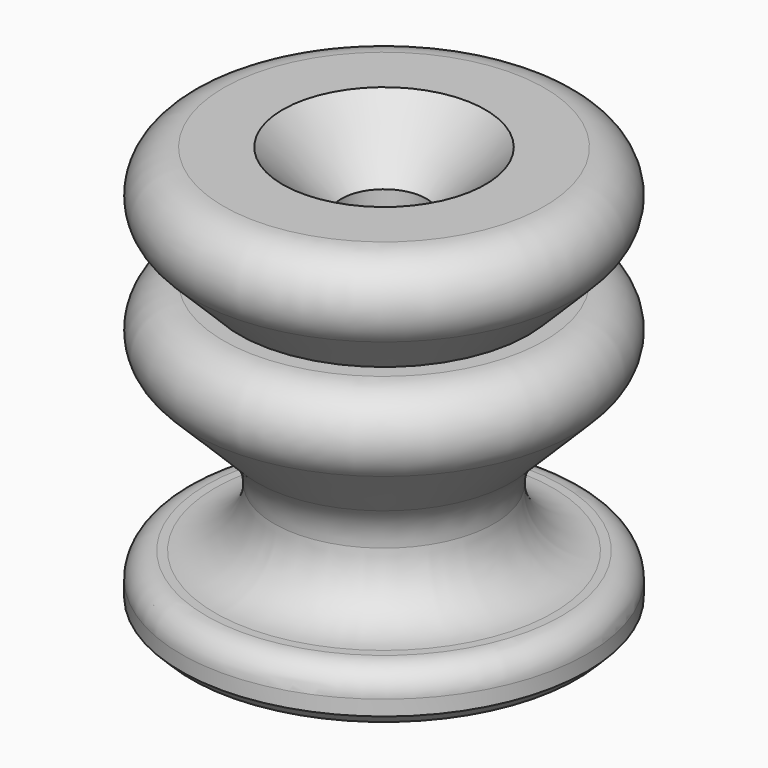
from build123d import *

# Parameters (mm, degrees)
F2_W = 9.5
F2_H = 0.9


with BuildPart() as f1:
    # F0 (on Front) → F1 (revolve)
    with BuildSketch(Plane.XZ):
        with BuildLine():
            Line((-3.1, 0), (-2.5, 0.6))
            Line((-2.5, 0.6), (-2.5, 13.5))
            Line((-2.5, 13.5), (-6, 17))
            Line((-6, 17), (-9.489592, 17))
            ThreePointArc((-9.489592, 17), (-7.714466, 16.264719), (-6.979185, 14.489592))
            ThreePointArc((-6.979185, 14.489592), (-8.528901, 12.170278), (-11.264719, 12.714466))
            Line((-11.264719, 12.714466), (-7.525126, 8.974874))
            ThreePointArc((-7.525126, 8.974874), (-6.766422, 7.839392), (-6.5, 6.5))
            ThreePointArc((-6.5, 6.5), (-7.525126, 4.025126), (-10, 3))
            Line((-10, 3), (-10.5, 3))
            ThreePointArc((-10.5, 3), (-11.56066, 2.56066), (-12, 1.5))
            Line((-12, 1.5), (-12, 0.6))
            Line((-12, 0.6), (-11.4, 0))
            Line((-11.4, 0), (-3.1, 0))
        make_face()
        with BuildLine():
            ThreePointArc((-6.979185, 14.489592), (-7.714466, 16.264719), (-9.489592, 17))
            ThreePointArc((-9.489592, 17), (-11.808907, 15.450284), (-11.264719, 12.714466))
            ThreePointArc((-11.264719, 12.714466), (-8.528901, 12.170278), (-6.979185, 14.489592))
        make_face()
    revolve(axis=Axis((0, 0, -2.873134), (0, 0, -1)))


with BuildPart() as f3:
    # F2 (on Front) → F3 (revolve)
    with BuildSketch(Plane.XZ):
        with BuildLine():
            Line((-10, 3), (-2.5, 3))
            Line((-2.5, 3), (-2.5, 13.5))
            Line((-2.5, 13.5), (-2.5, 20.505204))
            Line((-2.5, 20.505204), (-5.994796, 24))
            Line((-5.994796, 24), (-9.489592, 24))
            ThreePointArc((-9.489592, 24), (-11.808907, 22.450284), (-11.264719, 19.714466))
            Line((-11.264719, 19.714466), (-7.525126, 15.974874))
            ThreePointArc((-7.525126, 15.974874), (-6.766422, 14.839392), (-6.5, 13.5))
            Line((-6.5, 13.5), (-6.5, 6.5))
            ThreePointArc((-6.5, 6.5), (-7.525126, 4.025126), (-10, 3))
        make_face()
        with BuildLine():
            ThreePointArc((-10.5, 3), (-11.56066, 2.56066), (-12, 1.5))
            Line((-12, 1.5), (-2.5, 1.5))
            Line((-2.5, 1.5), (-2.5, 3))
            Line((-2.5, 3), (-10, 3))
            Line((-10, 3), (-10.5, 3))
        make_face()
        with Locations((-7.25, 1.05)):
            Rectangle(F2_W, F2_H)
        Polygon((-12, 0.6), (-11.4, 0), (-2.5, 0), (-2.5, 0.6), align=None)
    revolve(axis=Axis((0, 0, 9.955544), (0, 0, -1)))


solid = Compound([f1.part, f3.part])
